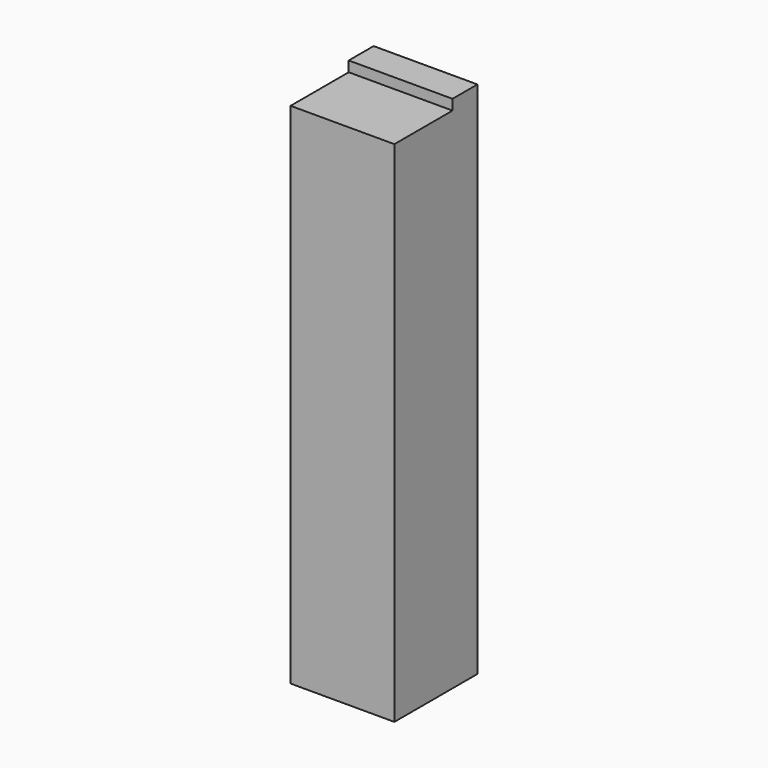
from build123d import *

# Parameters (mm, degrees)
F0_W     = 100
F0_H     = 500
F1_DEPTH = 100
F2_W     = 100
F2_H     = 70
F3_DEPTH = 10
F4_SCALE = 0.07


with BuildPart() as f1:
    # F0 (on Front) → F1 (new body)
    with BuildSketch(Plane.XZ):
        with Locations((50, 250)):
            Rectangle(F0_W, F0_H)
    extrude(amount=F1_DEPTH)

    # F2 (on face) → F3 (cut)
    with BuildSketch(Plane.XY.offset(500)):
        with Locations((50, -65)):
            Rectangle(F2_W, F2_H)
    extrude(amount=-F3_DEPTH, mode=Mode.SUBTRACT)


with BuildPart() as f1_1:
    # F4: moved
    add(f1.part.scale(F4_SCALE))


solid = f1_1.part
